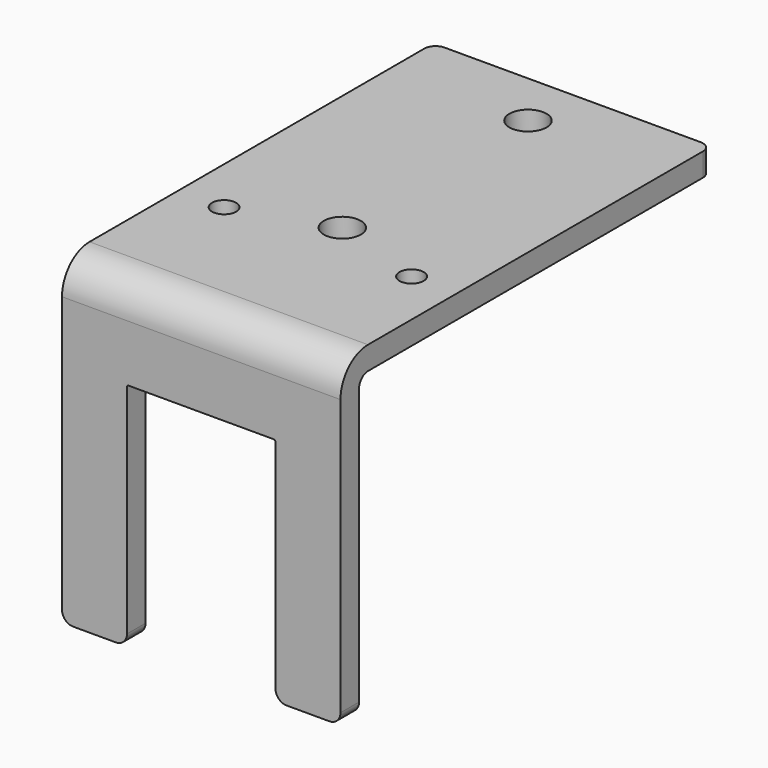
from build123d import *

# Parameters (mm, degrees)
F1_DEPTH = 38.1
F3_DEPTH = 3.175
F4_R     = 1.524
F5_R     = 2.54
F5_R_2   = 1.651
F6_DEPTH = 3.175


with BuildPart() as f1:
    # F0 (on Right) → F1 (new body)
    with BuildSketch(Plane.YZ):
        with BuildLine():
            Line((-64.0291666667, 0), (-60.8541666667, 0))
            Line((-60.8541666667, 0), (-60.8541666667, 39.243))
            ThreePointArc((-60.8541666667, 39.243), (-60.4077974012, 40.3206307345), (-59.3301666667, 40.767))
            Line((-59.3301666667, 40.767), (-0.5291666667, 40.767))
            Line((-0.5291666667, 40.767), (-0.5291666667, 43.942))
            Line((-0.5291666667, 43.942), (-59.3301666667, 43.942))
            ThreePointArc((-59.3301666667, 43.942), (-62.6528614315, 42.5656947648), (-64.0291666667, 39.243))
            Line((-64.0291666667, 39.243), (-64.0291666667, 0))
        make_face()
    extrude(amount=F1_DEPTH)

    # F2 (on face) → F3 (cut, through all)
    with BuildSketch(Plane.XZ.offset(64.0291666667)):
        with BuildLine():
            Line((8.89, 31.242), (8.89, 0))
            Line((8.89, 0), (29.21, 0))
            Line((29.21, 0), (29.21, 31.242))
            ThreePointArc((29.21, 31.242), (29.1356051224, 31.4216051224), (28.956, 31.496))
            Line((28.956, 31.496), (9.144, 31.496))
            ThreePointArc((9.144, 31.496), (8.9643948776, 31.4216051224), (8.89, 31.242))
        make_face()
    extrude(amount=-F3_DEPTH, mode=Mode.SUBTRACT)

    # F4
    f4_edges = [f1.edges().sort_by_distance(p)[0] for p in [
        (8.89, -62.441667, 0),
        (0, -62.441667, 0),
        (29.21, -62.441667, 0),
        (38.1, -62.441667, 0),
        (38.1, -0.529167, 42.3545),
        (0, -0.529167, 42.3545),
    ]]
    fillet(f4_edges, radius=F4_R)

    # F5 (on face) → F6 (cut, through all)
    with BuildSketch(Plane.XY.offset(43.942)):
        with Locations((19.05, -8.1491666667)):
            Circle(F5_R)
        with Locations((19.05, -39.8991666667)):
            Circle(F5_R)
        with Locations((31.877, -44.0901666667)):
            Circle(F5_R_2)
        with Locations((6.223, -44.0901666667)):
            Circle(F5_R_2)
    extrude(amount=-F6_DEPTH, mode=Mode.SUBTRACT)


solid = f1.part
